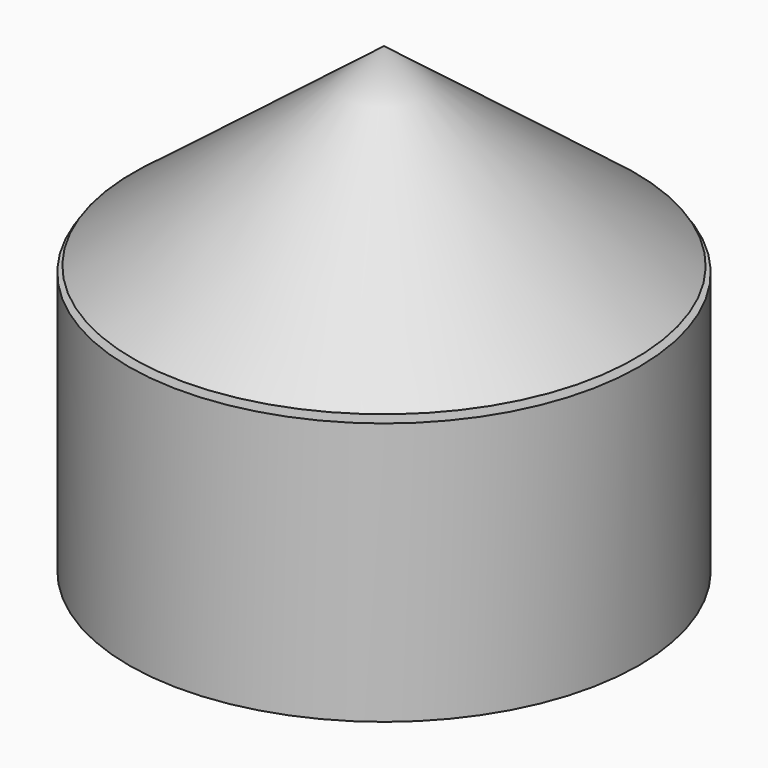
from build123d import *

# Parameters (mm, degrees)
F0_R          = 24.667295
F1_DEPTH      = 25.4
F5_DEPTH      = 1.27
F5_DEPTH_BACK = 1.27


with BuildPart() as f1:
    # F0 (on Top) → F1 (new body)
    with BuildSketch(Plane.XY):
        Circle(F0_R)
    extrude(amount=F1_DEPTH)

    # F4 (on Right) → F5 (join, two sides)
    with BuildSketch(Plane.YZ) as f5_sk:
        Polygon((30.517086, 12.39093), (0, 12.39093), (0, 0), (35.04863, 0), align=None)
    extrude(amount=F5_DEPTH)
    extrude(f5_sk.sketch, amount=-F5_DEPTH_BACK)


with BuildPart() as f3:
    # F2 (on Right) → F3 (revolve)
    with BuildSketch(Plane.YZ):
        Polygon((24.286222, 25.98555), (0, 44.678152), (0, 25.98555), align=None)
    revolve(axis=Axis((0, 0, 35.331851), (0, 0, -1)))


solid = Compound([f1.part, f3.part])
